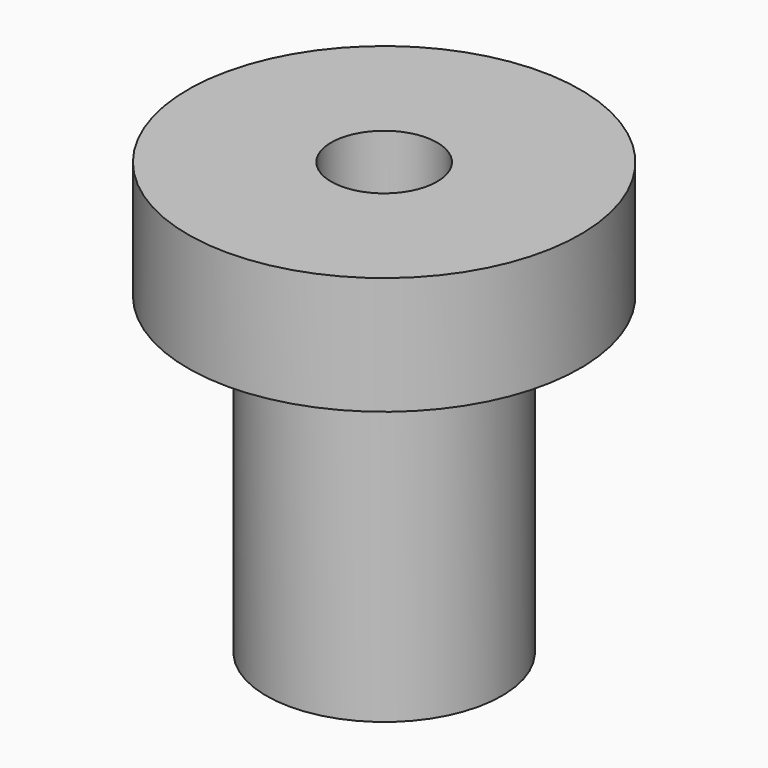
from build123d import *

# Parameters (mm, degrees)
F2_R     = 1.35
F3_DEPTH = 21.8


with BuildPart() as f1:
    # F0 (on Right) → F1 (revolve)
    with BuildSketch(Plane.YZ):
        Polygon((0, -11), (0, 0), (-5, 0), (-5, -3), (-3, -3), (-3, -11), align=None)
    revolve(axis=Axis((0, 0, -5.5), (0, 0, 1)))

    # F2 (on face) → F3 (cut)
    with BuildSketch(Plane.XY):
        Circle(F2_R)
    extrude(amount=-F3_DEPTH, mode=Mode.SUBTRACT)


solid = f1.part
